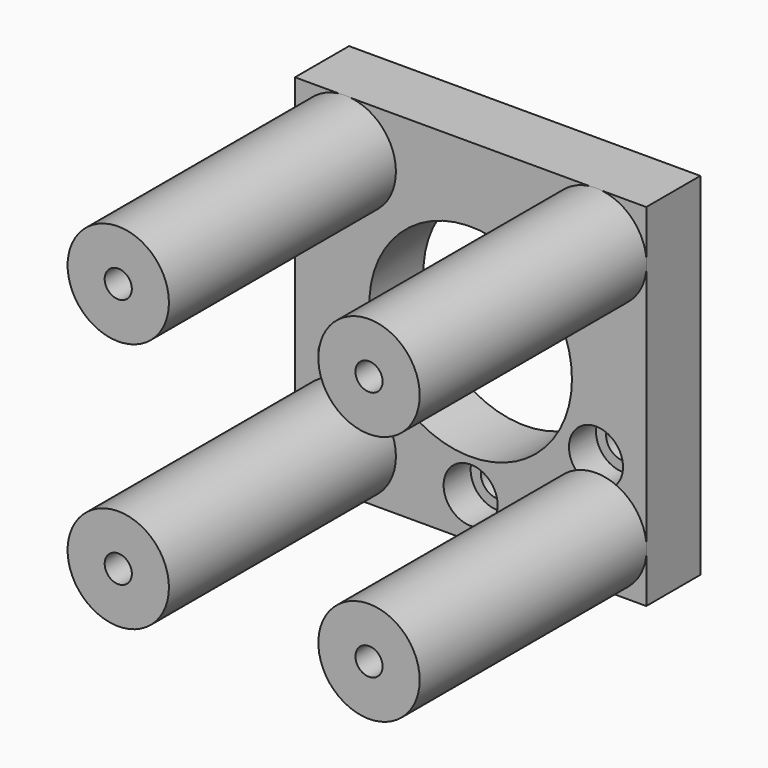
from build123d import *

# Parameters (mm, degrees)
F0_W     = 66.04
F0_H     = 66.04
F0_R     = 3.175
F0_R_2   = 19.05
F1_DEPTH = 12.7
F2_R     = 5.08
F3_DEPTH = 6.35
F4_R     = 3.175
F5_DEPTH = 12.701
F6_R     = 5.08
F7_DEPTH = 6.35
F8_R     = 9.525
F8_R_2   = 2.5527
F9_DEPTH = 53.34


with BuildPart() as f1:
    # F0 (on Front) → F1 (new body)
    with BuildSketch(Plane.XZ):
        Rectangle(F0_W, F0_H)
        with Locations((-23.57, -23.57)):
            Circle(F0_R, mode=Mode.SUBTRACT)
        with Locations((23.57, -23.57)):
            Circle(F0_R, mode=Mode.SUBTRACT)
        with Locations((-23.57, 23.57)):
            Circle(F0_R, mode=Mode.SUBTRACT)
        Circle(F0_R_2, mode=Mode.SUBTRACT)
        with Locations((23.57, 23.57)):
            Circle(F0_R, mode=Mode.SUBTRACT)
    extrude(amount=F1_DEPTH)

    # F2 (on face) → F3 (cut)
    with BuildSketch(Plane(origin=(0, 0, 0), x_dir=(-1, 0, 0), z_dir=(0, 1, 0))):
        with Locations((23.57, -23.57)):
            Circle(F2_R)
        with Locations((-23.57, -23.57)):
            Circle(F2_R)
        with Locations((-23.57, 23.57)):
            Circle(F2_R)
        with Locations((23.57, 23.57)):
            Circle(F2_R)
    extrude(amount=-F3_DEPTH, mode=Mode.SUBTRACT)

    # F4 (on face) → F5 (cut, through all)
    with BuildSketch(Plane(origin=(0, 0, 0), x_dir=(-1, 0, 0), z_dir=(0, 1, 0))):
        with Locations((23.57, -11.43)):
            Circle(F4_R)
        with Locations((-23.57, -11.43)):
            Circle(F4_R)
        with Locations((0, -25.4)):
            Circle(F4_R)
    extrude(amount=-F5_DEPTH, mode=Mode.SUBTRACT)

    # F6 (on face) → F7 (cut)
    with BuildSketch(Plane.XZ.offset(12.7)):
        with Locations((23.57, -11.43)):
            Circle(F6_R)
        with Locations((0, -25.4)):
            Circle(F6_R)
        with Locations((-23.57, -11.43)):
            Circle(F6_R)
    extrude(amount=-F7_DEPTH, mode=Mode.SUBTRACT)


with BuildPart() as f9:
    # F8 (on face) → F9 (new body)
    with BuildSketch(Plane.XZ.offset(12.7)):
        with Locations((23.57, -23.57)):
            Circle(F8_R)
        with Locations((23.57, -23.57)):
            Circle(F8_R_2, mode=Mode.SUBTRACT)
        with Locations((-23.57, -23.57)):
            Circle(F8_R)
        with Locations((-23.57, -23.57)):
            Circle(F8_R_2, mode=Mode.SUBTRACT)
        with Locations((23.57, 23.57)):
            Circle(F8_R)
        with Locations((23.57, 23.57)):
            Circle(F8_R_2, mode=Mode.SUBTRACT)
        with Locations((-23.57, 23.57)):
            Circle(F8_R)
        with Locations((-23.57, 23.57)):
            Circle(F8_R_2, mode=Mode.SUBTRACT)
    extrude(amount=F9_DEPTH)


solid = Compound([f1.part, f9.part])
